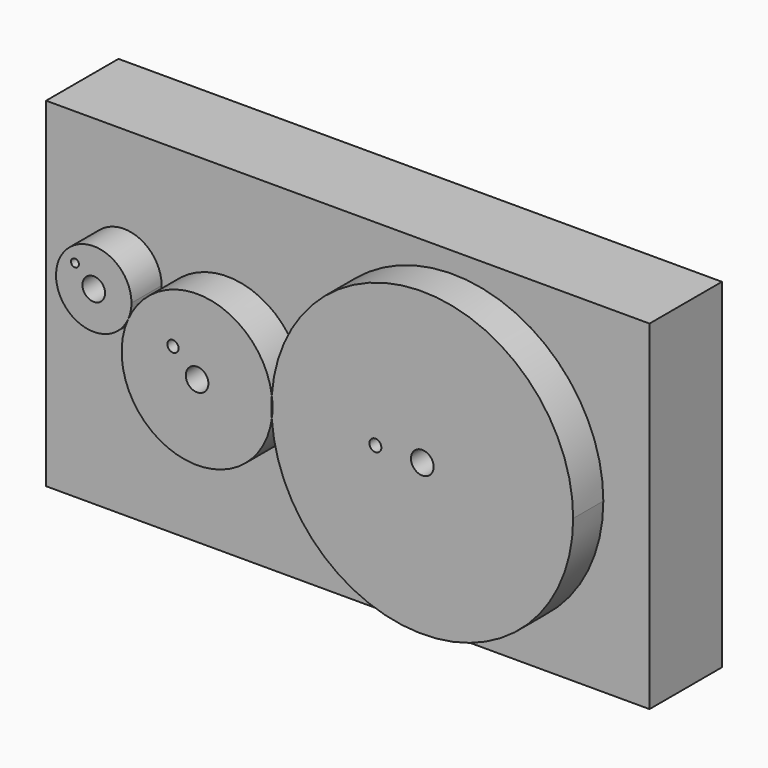
from build123d import *

# Parameters (mm, degrees)
F0_W     = 80
F0_H     = 45
F1_DEPTH = 12
F2_R     = 0.796032
F2_R_2   = 1.5
F2_R_3   = 0.744286
F2_R_4   = 0.525133
F3_DEPTH = 5
F4_D     = 3
F5_D     = 3
F6_D     = 3


with BuildPart() as f1:
    # F0 (on Front) → F1 (new body)
    with BuildSketch(Plane.XZ):
        with Locations((-0.163622, 0.20093)):
            Rectangle(F0_W, F0_H)
    extrude(amount=F1_DEPTH)

    # F4 (through all)
    with Locations(Plane.XZ.offset(12)):
        with Locations((13.714387, 0)):
            Hole(F4_D / 2)

    # F5 (through all)
    with Locations(Plane.XZ.offset(12)):
        with Locations((-16.1436, 0)):
            Hole(F5_D / 2)

    # F6 (through all)
    with Locations(Plane.XZ.offset(12)):
        with Locations((-29.845599, 6.103707)):
            Hole(F6_D / 2)


with BuildPart() as f3:
    # F2 (on face) → F3 (new body)
    with BuildSketch(Plane.XZ.offset(12)):
        with BuildLine():
            ThreePointArc((-6.238388, -1.373597), (14.401591, -19.98819), (33.714387, 0))
            ThreePointArc((33.714387, 0), (14.401591, 19.98819), (-6.238388, 1.373597))
            ThreePointArc((-6.238388, 1.373597), (-6.167326, 0.688432), (-6.1436, 0))
            ThreePointArc((-6.1436, 0), (-6.167326, -0.688432), (-6.238388, -1.373597))
        make_face()
        with Locations((7.49143, 0)):
            Circle(F2_R, mode=Mode.SUBTRACT)
        with Locations((13.714387, 0)):
            Circle(F2_R_2, mode=Mode.SUBTRACT)
        with BuildLine():
            ThreePointArc((-6.238388, -1.373597), (-6.285613, 0), (-6.238388, 1.373597))
            ThreePointArc((-6.238388, 1.373597), (-14.741844, 9.901267), (-25.278266, 4.069138))
            ThreePointArc((-25.278266, 4.069138), (-18.892105, -9.61487), (-6.238388, -1.373597))
        make_face()
        with Locations((-16.1436, 0)):
            Circle(F2_R_2, mode=Mode.SUBTRACT)
        with Locations((-19.342253, 2.836976)):
            Circle(F2_R_3, mode=Mode.SUBTRACT)
        with BuildLine():
            ThreePointArc((-24.845599, 6.103707), (-34.736236, 7.14374), (-25.278266, 4.069138))
            ThreePointArc((-25.278266, 4.069138), (-24.954961, 5.063675), (-24.845599, 6.103707))
        make_face()
        with Locations((-32.333657, 8.329799)):
            Circle(F2_R_4, mode=Mode.SUBTRACT)
        with Locations((-29.845599, 6.103707)):
            Circle(F2_R_2, mode=Mode.SUBTRACT)
    extrude(amount=F3_DEPTH)


solid = Compound([f1.part, f3.part])
